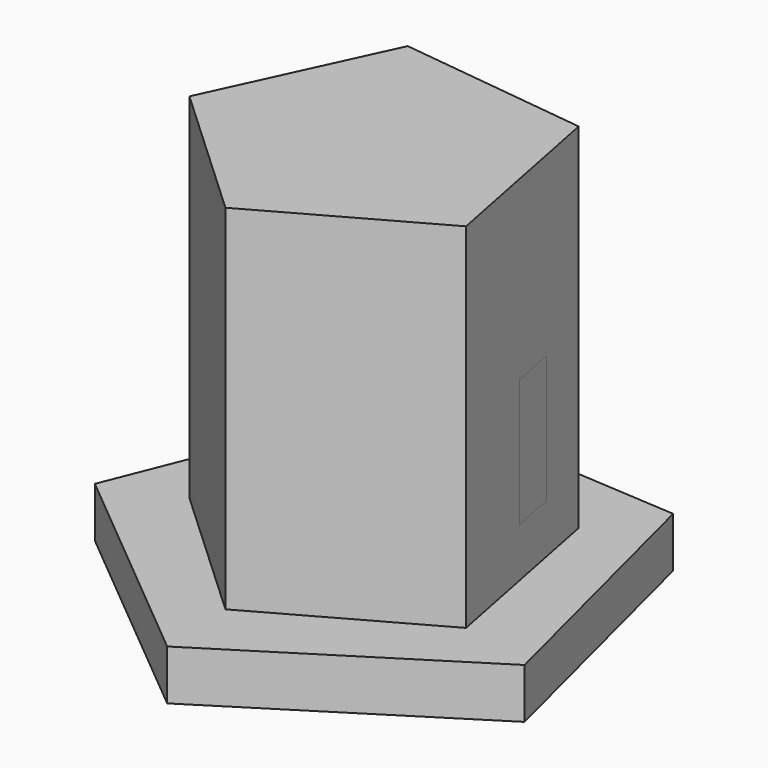
from build123d import *

# Parameters (mm, degrees)
F1_DEPTH = 9.398
F3_DEPTH = 50.292
F4_DEPTH = 25.4
F6_W     = 14.479677
F6_H     = 23.901559
F7_DEPTH = 8.89


with BuildPart() as f1:
    # F0 (on Top) → F1 (new body)
    with BuildSketch(Plane.XY):
        Polygon((-2.924524, -44.697735), (41.606344, -16.593747), (28.638659, 34.442235), (-23.90668, 37.880219), (-43.4138, -11.030972), align=None)
    extrude(amount=F1_DEPTH)

    # F2 (on Top) → F3 (join)
    with BuildSketch(Plane.XY):
        Polygon((-3.621473, -30.167894), (27.572275, -12.766617), (20.662076, 22.27769), (-14.80241, 26.534987), (-29.810468, -5.878166), align=None)
    extrude(amount=F3_DEPTH)

    # F3_face (on face) → F4 (join)
    with BuildSketch(Plane.XY.offset(50.292)):
        Polygon((-29.810468, -5.878166), (-3.621473, -30.167894), (27.572275, -12.766617), (20.662076, 22.27769), (-14.80241, 26.534987), align=None)
    extrude(amount=F4_DEPTH)

    # F6 (on face) → F7 (join)
    with BuildSketch(Plane(origin=(24.117176, 4.755536, 0), x_dir=(-0.193459, 0.981108, 0), z_dir=(0.981108, 0.193459, 0))):
        with Locations((0.480323, 30.59422)):
            Rectangle(F6_W, F6_H)
    extrude(amount=-F7_DEPTH)


solid = f1.part
